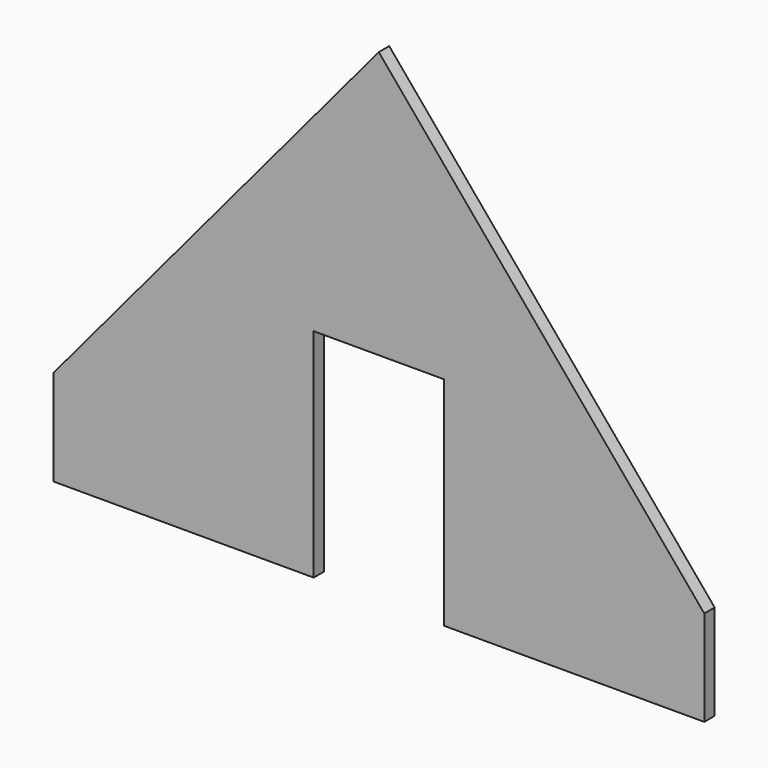
from build123d import *

# Parameters (mm, degrees)
F0_W     = 60
F0_H     = 22
F1_DEPTH = 3


with BuildPart() as f1:
    # F0 (on Front) → F1 (new body)
    with BuildSketch(Plane.XZ):
        with Locations((19.442418, 11)):
            Rectangle(F0_W, F0_H)
        Polygon((64.442418, 111.488636), (-10.557582, 22), (49.442418, 22), (49.442418, 50), (79.442418, 50), (79.442418, 22), (139.442418, 22), align=None)
        with Locations((109.442418, 11)):
            Rectangle(F0_W, F0_H)
    extrude(amount=F1_DEPTH)


solid = f1.part
